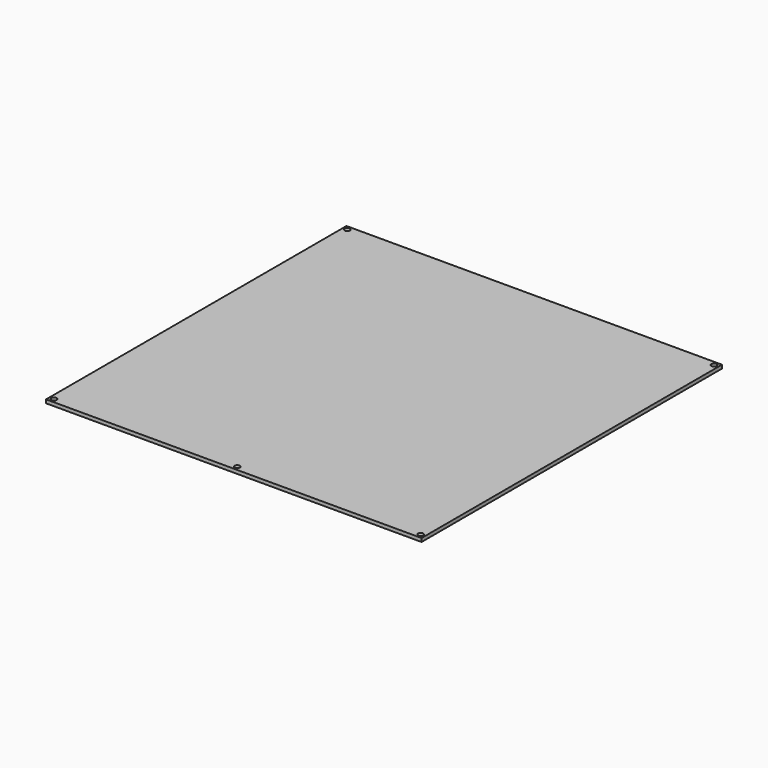
from build123d import *

# Parameters (mm, degrees)
F0_W     = 214
F0_H     = 214
F0_R     = 1.5
F1_DEPTH = 2


with BuildPart() as f1:
    # F0 (on Top) → F1 (new body)
    with BuildSketch(Plane.XY):
        Rectangle(F0_W, F0_H)
        with Locations((-104.5, -104.5)):
            Circle(F0_R, mode=Mode.SUBTRACT)
        with Locations((0, -104.5)):
            Circle(F0_R, mode=Mode.SUBTRACT)
        with Locations((104.5, -104.5)):
            Circle(F0_R, mode=Mode.SUBTRACT)
        with Locations((-104.5, 104.5)):
            Circle(F0_R, mode=Mode.SUBTRACT)
        with Locations((104.5, 104.5)):
            Circle(F0_R, mode=Mode.SUBTRACT)
    extrude(amount=F1_DEPTH)


solid = f1.part
